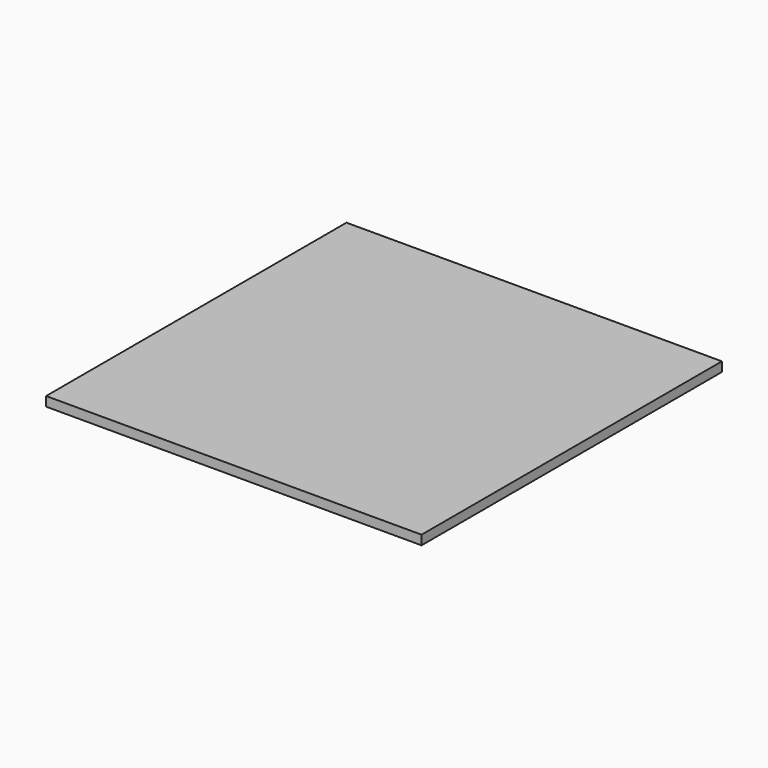
from build123d import *

# Parameters (mm, degrees)
BOX004_W     = 300
BOX004_H     = 300
BOX004_DEPTH = 10
BOX003_W     = 400
BOX003_H     = 400
BOX003_DEPTH = 10


with BuildPart() as cube003:
    # Box004 → Box004 (new body)
    with BuildSketch(Plane(origin=(50, 50, -20), x_dir=(1, 0, 0), z_dir=(0, 0, 1))):
        with Locations((150, 150)):
            Rectangle(BOX004_W, BOX004_H)
    extrude(amount=BOX004_DEPTH)


with BuildPart() as w_plate:
    # Box003 → Box003 (new body)
    with BuildSketch(Plane.XY.offset(-10)):
        with Locations((200, 200)):
            Rectangle(BOX003_W, BOX003_H)
    extrude(amount=BOX003_DEPTH)

    # Fusion: union Cube003
    add(cube003.part)


solid = w_plate.part
